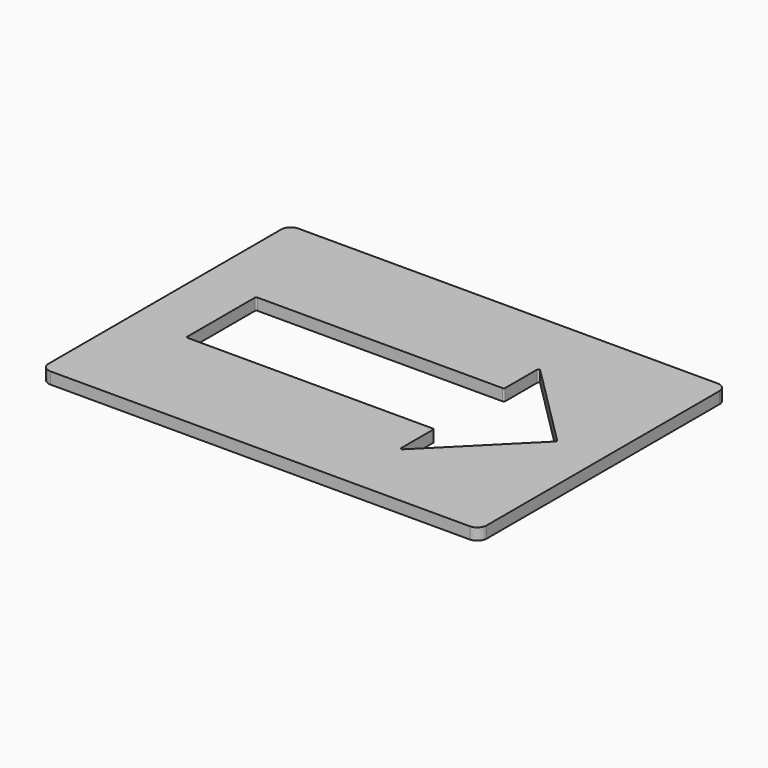
from build123d import *

# Parameters (mm, degrees)
F1_DEPTH = 6.35
F3_DEPTH = 6.351
F5_DEPTH = 6.351


with BuildPart() as f1:
    # F0 (on Top) → F1 (new body)
    with BuildSketch(Plane.XY):
        with BuildLine():
            Line((113.9825, 84.1375), (-113.9825, 84.1375))
            ThreePointArc((-113.9825, 84.1375), (-117.574602, 82.649602), (-119.0625, 79.0575))
            Line((-119.0625, 79.0575), (-119.0625, -79.0575))
            ThreePointArc((-119.0625, -79.0575), (-117.574602, -82.649602), (-113.9825, -84.1375))
            Line((-113.9825, -84.1375), (113.9825, -84.1375))
            ThreePointArc((113.9825, -84.1375), (117.574602, -82.649602), (119.0625, -79.0575))
            Line((119.0625, -79.0575), (119.0625, 79.0575))
            ThreePointArc((119.0625, 79.0575), (117.574602, 82.649602), (113.9825, 84.1375))
        make_face()
    extrude(amount=F1_DEPTH)

    # F2 (on face) → F3 (cut, through all)
    with BuildSketch(Plane.XY.offset(6.35)):
        Polygon((-87.3125, 22.479), (-87.3125, 0), (-87.3125, -22.479), (47.5615, -22.479), (47.5615, -44.901281), (92.462781, 0), (47.5615, 44.901281), (47.5615, 22.479), align=None)
    extrude(amount=-F3_DEPTH, mode=Mode.SUBTRACT)

    # F4 (on face) → F5 (cut, through all)
    with BuildSketch(Plane.XY.offset(6.35)):
        with BuildLine():
            Line((-88.5825, 22.9616), (-88.5825, -22.9616))
            ThreePointArc((-88.5825, -22.9616), (-88.351876, -23.518376), (-87.7951, -23.749))
            Line((-87.7951, -23.749), (45.5041, -23.749))
            ThreePointArc((45.5041, -23.749), (46.060876, -23.979624), (46.2915, -24.5364))
            Line((46.2915, -24.5364), (46.2915, -46.06638))
            ThreePointArc((46.2915, -46.06638), (46.777575, -46.793843), (47.635676, -46.623156))
            Line((47.635676, -46.623156), (93.702056, -0.556776))
            ThreePointArc((93.702056, -0.556776), (93.93268, 0), (93.702056, 0.556776))
            Line((93.702056, 0.556776), (47.635676, 46.623156))
            ThreePointArc((47.635676, 46.623156), (46.777575, 46.793843), (46.2915, 46.06638))
            Line((46.2915, 46.06638), (46.2915, 24.5364))
            ThreePointArc((46.2915, 24.5364), (46.060876, 23.979624), (45.5041, 23.749))
            Line((45.5041, 23.749), (-87.7951, 23.749))
            ThreePointArc((-87.7951, 23.749), (-88.351876, 23.518376), (-88.5825, 22.9616))
        make_face()
    extrude(amount=-F5_DEPTH, mode=Mode.SUBTRACT)


solid = f1.part
